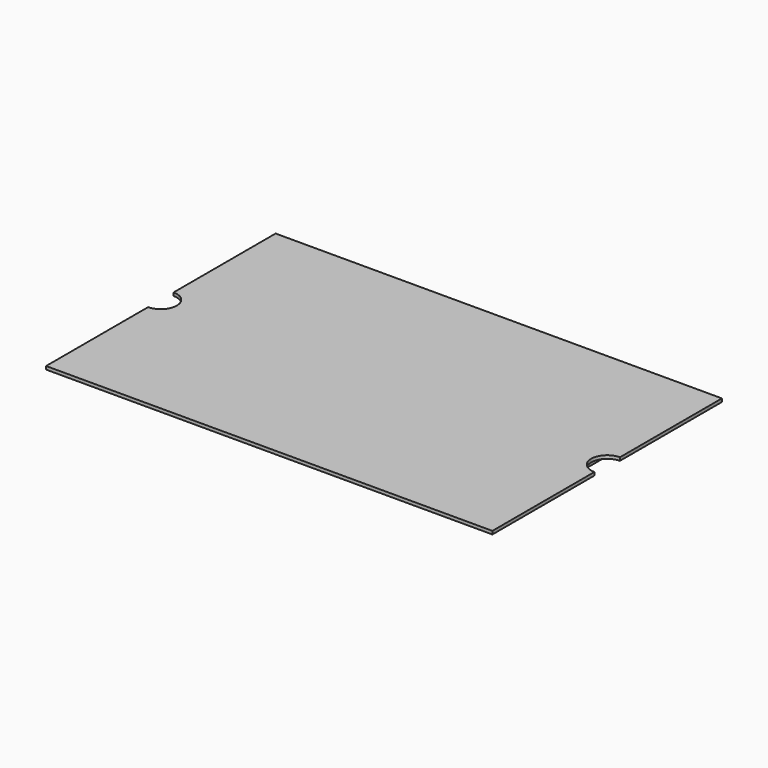
from build123d import *

# Parameters (mm, degrees)
F1_DEPTH = 2.54
F2_W     = 304.8
F2_H     = 177.8
F3_DEPTH = 12.7


with BuildPart() as f1:
    # F0 (on Top) → F1 (new body)
    with BuildSketch(Plane.XY):
        with BuildLine():
            Line((177.8, 114.3), (-177.8, 114.3))
            Line((-177.8, 114.3), (-177.8, 12.7))
            ThreePointArc((-177.8, 12.7), (-165.1, 0), (-177.8, -12.7))
            Line((-177.8, -12.7), (-177.8, -114.3))
            Line((-177.8, -114.3), (177.8, -114.3))
            Line((177.8, -114.3), (177.8, -12.7))
            ThreePointArc((177.8, -12.7), (165.1, 0), (177.8, 12.7))
            Line((177.8, 12.7), (177.8, 114.3))
        make_face()
    extrude(amount=F1_DEPTH)

    # F2 (on face) → F3 (join)
    with BuildSketch(Plane(origin=(0, 0, 0), x_dir=(1, 0, 0), z_dir=(0, 0, -1))):
        Rectangle(F2_W, F2_H)
    extrude(amount=F3_DEPTH)


solid = f1.part
